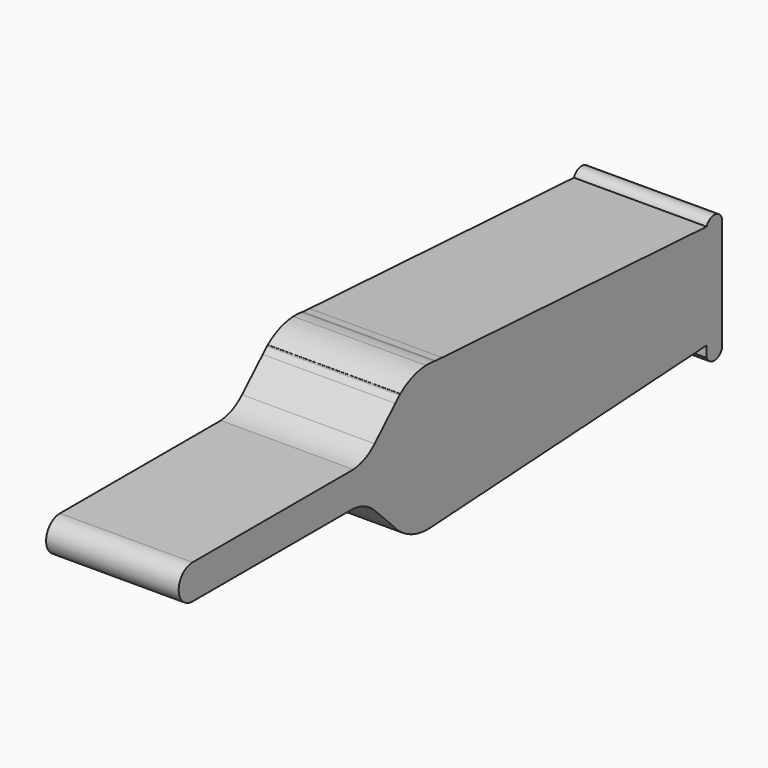
from build123d import *

# Parameters (mm, degrees)
F1_DEPTH = 25.4


with BuildPart() as f1:
    # F0 (on Right) → F1 (new body)
    with BuildSketch(Plane.YZ):
        with BuildLine():
            Line((-104.369102, 6.862129), (-119.007048, 6.862129))
            ThreePointArc((-119.007048, 6.862129), (-122.307048, 3.562129), (-119.007048, 0.262129))
            Line((-119.007048, 0.262129), (-104.369102, 0.262129))
            Line((-104.369102, 0.262129), (-104.369102, 6.862129))
        make_face()
        with BuildLine():
            Line((-81.730104, 6.862129), (-104.369102, 6.862129))
            Line((-104.369102, 6.862129), (-104.369102, 0.262129))
            Line((-104.369102, 0.262129), (-81.449468, 0.262129))
            ThreePointArc((-81.449468, 0.262129), (-81.271366, 0.268046), (-81.093176, 0.270019))
            Line((-81.093176, 0.270019), (-81.093176, 6.837399))
            ThreePointArc((-81.093176, 6.837399), (-81.41188, 6.843583), (-81.730104, 6.862129))
        make_face()
        with BuildLine():
            Line((-81.093176, 6.862129), (-81.730104, 6.862129))
            ThreePointArc((-81.730104, 6.862129), (-81.41188, 6.843583), (-81.093176, 6.837399))
            Line((-81.093176, 6.837399), (-81.093176, 6.862129))
        make_face()
        with BuildLine():
            Line((-80.456248, 6.862129), (-81.093176, 6.862129))
            Line((-81.093176, 6.862129), (-81.093176, 6.837399))
            ThreePointArc((-81.093176, 6.837399), (-80.774472, 6.843583), (-80.456248, 6.862129))
        make_face()
        with BuildLine():
            ThreePointArc((-80.456248, 6.862129), (-80.774472, 6.843583), (-81.093176, 6.837399))
            Line((-81.093176, 6.837399), (-81.093176, 0.270019))
            ThreePointArc((-81.093176, 0.270019), (-80.914986, 0.268046), (-80.736883, 0.262129))
            ThreePointArc((-80.736883, 0.262129), (-77.838754, -0.417365), (-75.385874, -2.103855))
            Line((-75.385874, -2.103855), (-70.854673, -6.661773))
            Line((-70.854673, -6.661773), (-69.745283, -7.777704))
            Line((-69.745283, -7.777704), (-69.634731, -7.888907))
            ThreePointArc((-69.634731, -7.888907), (-66.585834, -9.72071), (-63.105537, -10.454741))
            Line((-63.105537, -10.454741), (-63.105537, 17.351531))
            ThreePointArc((-63.105537, 17.351531), (-66.352384, 16.691193), (-69.231755, 15.051898))
            ThreePointArc((-69.231755, 15.051898), (-69.338212, 14.96536), (-69.443529, 14.877439))
            Line((-69.443529, 14.877439), (-70.430558, 13.925088))
            Line((-70.430558, 13.925088), (-75.389424, 9.14045))
            ThreePointArc((-75.389424, 9.14045), (-77.724386, 7.559952), (-80.456248, 6.862129))
        make_face()
        with BuildLine():
            ThreePointArc((-81.093176, 0.270019), (-81.271366, 0.268046), (-81.449468, 0.262129))
            Line((-81.449468, 0.262129), (-81.093176, 0.262129))
            Line((-81.093176, 0.262129), (-81.093176, 0.270019))
        make_face()
        with BuildLine():
            ThreePointArc((-80.736883, 0.262129), (-80.914986, 0.268046), (-81.093176, 0.270019))
            Line((-81.093176, 0.270019), (-81.093176, 0.262129))
            Line((-81.093176, 0.262129), (-80.736883, 0.262129))
        make_face()
        with BuildLine():
            ThreePointArc((-69.443529, 14.877439), (-69.952612, 14.417399), (-70.430558, 13.925088))
            Line((-70.430558, 13.925088), (-69.443529, 14.877439))
        make_face()
        with BuildLine():
            Line((-69.262717, 15.051898), (-69.443529, 14.877439))
            ThreePointArc((-69.443529, 14.877439), (-69.338212, 14.96536), (-69.231755, 15.051898))
            Line((-69.231755, 15.051898), (-69.262717, 15.051898))
        make_face()
        with BuildLine():
            Line((-69.745283, -7.777704), (-70.854673, -6.661773))
            ThreePointArc((-70.854673, -6.661773), (-70.329009, -7.239634), (-69.762681, -7.777704))
            Line((-69.762681, -7.777704), (-69.745283, -7.777704))
        make_face()
        with BuildLine():
            Line((-69.634731, -7.888907), (-69.745283, -7.777704))
            Line((-69.745283, -7.777704), (-69.762681, -7.777704))
            ThreePointArc((-69.762681, -7.777704), (-69.698926, -7.833558), (-69.634731, -7.888907))
        make_face()
        with BuildLine():
            ThreePointArc((-61.092768, 17.242813), (-62.096537, 17.345589), (-63.105537, 17.351531))
            Line((-63.105537, 17.351531), (-63.105537, -10.454741))
            ThreePointArc((-63.105537, -10.454741), (-62.387725, -10.460355), (-61.671145, -10.417944))
            Line((-61.671145, -10.417944), (-59.232236, -10.275526))
            Line((-59.232236, -10.275526), (-59.232236, 3.41306))
            Line((-59.232236, 3.41306), (-59.232236, 17.101647))
            Line((-59.232236, 17.101647), (-60.784565, 17.191497))
            Line((-60.784565, 17.191497), (-61.671145, 17.242813))
            Line((-61.671145, 17.242813), (-61.092768, 17.242813))
        make_face()
        with BuildLine():
            ThreePointArc((-60.784565, 17.191497), (-60.938476, 17.218302), (-61.092768, 17.242813))
            Line((-61.092768, 17.242813), (-61.671145, 17.242813))
            Line((-61.671145, 17.242813), (-60.784565, 17.191497))
        make_face()
        Polygon((4.087667, 13.436624), (-59.232236, 17.101647), (-59.232236, 3.41306), (4.087667, 3.41306), align=None)
        Polygon((-59.232236, 3.41306), (-59.232236, -10.275526), (4.087667, -6.578003), (4.087667, 3.41306), align=None)
        with BuildLine():
            ThreePointArc((7.759838, 13.436624), (5.923753, 14.68173), (4.087667, 13.436624))
            Line((4.087667, 13.436624), (4.087667, 3.41306))
            Line((4.087667, 3.41306), (4.087667, -6.578003))
            Line((4.087667, -6.578003), (4.087667, -8.689393))
            ThreePointArc((4.087667, -8.689393), (5.923753, -9.911927), (7.759838, -8.689393))
            Line((7.759838, -8.689393), (7.759838, 13.436624))
        make_face()
    extrude(amount=F1_DEPTH)


solid = f1.part
